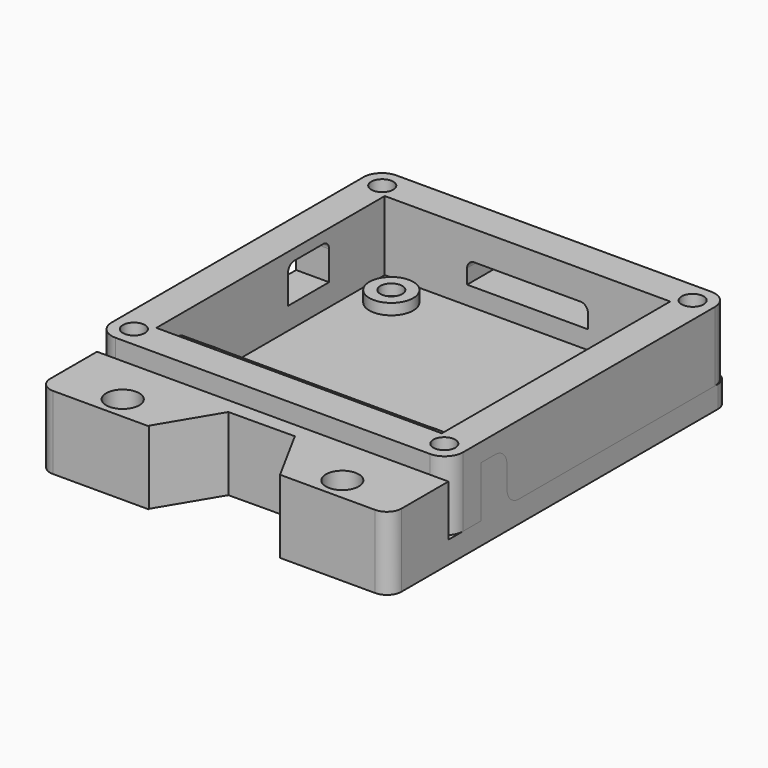
from build123d import *

# Parameters (mm, degrees)
SKETCH_W        = 48
SKETCH_H        = 48
SKETCH_R        = 1.5
PAD_DEPTH       = 2.5
SKETCH001_W     = 48
SKETCH001_H     = 48
SKETCH001_W_2   = 39
SKETCH001_H_2   = 39
PAD001_DEPTH    = 10
FILLET_R        = 2.5
SKETCH002_R     = 3
SKETCH002_R_2   = 1.5
PAD002_DEPTH    = 2
SKETCH003_W     = 16.5
SKETCH003_H     = 3
POCKET_DEPTH    = 5
SKETCH004_W     = 7
SKETCH004_H     = 5
POCKET001_DEPTH = 5
FILLET001_R     = 1
SKETCH005_R     = 1.5
POCKET002_DEPTH = 150.548094
SKETCH006_W     = 48
SKETCH006_H     = 58
SKETCH006_R     = 1.15
SKETCH006_R_2   = 2.25
PAD003_DEPTH    = 3
SKETCH007_R     = 2.25
PAD004_DEPTH    = 7
FILLET002_R     = 2
POCKET003_DEPTH = 10.001


with BuildPart() as box:
    # Sketch → Pad (new body)
    with BuildSketch(Plane.XY):
        Rectangle(SKETCH_W, SKETCH_H)
        with Locations((-15, 15)):
            Circle(SKETCH_R, mode=Mode.SUBTRACT)
        with Locations((15, 15)):
            Circle(SKETCH_R, mode=Mode.SUBTRACT)
        with Locations((15, -15)):
            Circle(SKETCH_R, mode=Mode.SUBTRACT)
        with Locations((-15, -15)):
            Circle(SKETCH_R, mode=Mode.SUBTRACT)
        with BuildLine():
            ThreePointArc((-10.15, 3.5), (-13.65, 0), (-10.15, -3.5))
            Line((-10.15, -3.5), (-10.15, -7.3))
            Line((-10.15, -7.3), (10.15, -7.3))
            Line((10.15, -7.3), (10.15, -3.5))
            ThreePointArc((10.15, -3.5), (13.65, 0), (10.15, 3.5))
            Line((10.15, 7.3), (10.15, 3.5))
            Line((-10.15, 7.3), (10.15, 7.3))
            Line((-10.15, 3.5), (-10.15, 7.3))
        make_face(mode=Mode.SUBTRACT)
    extrude(amount=PAD_DEPTH)

    # Sketch001 (on Face18 of Pad) → Pad001 (join)
    with BuildSketch(Plane.XY.offset(2.5)):
        Rectangle(SKETCH001_W, SKETCH001_H)
        Rectangle(SKETCH001_W_2, SKETCH001_H_2, mode=Mode.SUBTRACT)
    extrude(amount=PAD001_DEPTH)

    # Fillet
    fillet_edges = [box.edges().sort_by_distance(p)[0] for p in [
        (24, -24, 6.25),
        (-24, -24, 6.25),
        (24, 24, 6.25),
        (-24, 24, 6.25),
    ]]
    fillet(fillet_edges, radius=FILLET_R)

    # Sketch002 (on Face23 of Fillet) → Pad002 (join)
    with BuildSketch(Plane.XY.offset(2.5)):
        with Locations((15, 15)):
            Circle(SKETCH002_R)
        with Locations((15, 15)):
            Circle(SKETCH002_R_2, mode=Mode.SUBTRACT)
        with Locations((-15, 15)):
            Circle(SKETCH002_R)
        with Locations((-15, 15)):
            Circle(SKETCH002_R_2, mode=Mode.SUBTRACT)
        with Locations((15, -15)):
            Circle(SKETCH002_R)
        with Locations((15, -15)):
            Circle(SKETCH002_R_2, mode=Mode.SUBTRACT)
        with Locations((-15, -15)):
            Circle(SKETCH002_R)
        with Locations((-15, -15)):
            Circle(SKETCH002_R_2, mode=Mode.SUBTRACT)
    extrude(amount=PAD002_DEPTH)

    # Sketch003 (on Face22 of Pad002) → Pocket (cut)
    with BuildSketch(Plane.XZ.offset(-19.5)):
        with Locations((0, 7)):
            Rectangle(SKETCH003_W, SKETCH003_H)
    extrude(amount=-POCKET_DEPTH, mode=Mode.SUBTRACT)

    # Sketch004 (on Face35 of Pocket) → Pocket001 (cut)
    with BuildSketch(Plane.YZ.offset(-19.5)):
        with Locations((6.5, 8.5)):
            Rectangle(SKETCH004_W, SKETCH004_H)
    extrude(amount=-POCKET001_DEPTH, mode=Mode.SUBTRACT)

    # Fillet001
    fillet001_edges = [box.edges().sort_by_distance(p)[0] for p in [
        (-21.75, 3, 11),
        (-21.75, 10, 11),
        (-8.25, 21.75, 8.5),
        (8.25, 21.75, 8.5),
    ]]
    fillet(fillet001_edges, radius=FILLET001_R)

    # Sketch005 (on Face11 of Fillet001) → Pocket002 (cut, through all)
    with BuildSketch(Plane.XY.offset(12.5)):
        with Locations((-21.2, 21.2)):
            Circle(SKETCH005_R)
        with Locations((-21.2, -21.2)):
            Circle(SKETCH005_R)
    pocket002 = extrude(amount=-POCKET002_DEPTH, mode=Mode.SUBTRACT)

    # Mirrored: Pocket002 across Sketch005 V_Axis
    add(pocket002.mirror(Plane(origin=(0, 0, 12.5), x_dir=(0, 0, 1), z_dir=(1, 0, 0))), mode=Mode.SUBTRACT)


with BuildPart() as lid:
    # Sketch006 → Pad003 (new body)
    with BuildSketch(Plane.XY):
        with Locations((0, -5)):
            Rectangle(SKETCH006_W, SKETCH006_H)
        with Locations((-21.2, 21.2)):
            Circle(SKETCH006_R, mode=Mode.SUBTRACT)
        with Locations((21.2, 21.2)):
            Circle(SKETCH006_R, mode=Mode.SUBTRACT)
        with Locations((-21.2, -21.2)):
            Circle(SKETCH006_R, mode=Mode.SUBTRACT)
        with Locations((21.2, -21.2)):
            Circle(SKETCH006_R, mode=Mode.SUBTRACT)
        with Locations((-15, -17.864662)):
            Circle(SKETCH006_R_2, mode=Mode.SUBTRACT)
        with Locations((-15, -30.864662)):
            Circle(SKETCH006_R_2, mode=Mode.SUBTRACT)
        with Locations((15, -17.864662)):
            Circle(SKETCH006_R_2, mode=Mode.SUBTRACT)
        with Locations((15, -30.864662)):
            Circle(SKETCH006_R_2, mode=Mode.SUBTRACT)
    extrude(amount=PAD003_DEPTH)

    # Sketch007 (on Face14 of Pad003) → Pad004 (join)
    with BuildSketch(Plane.XY.offset(3)):
        with BuildLine():
            Line((24, -14), (-24, -14))
            Line((-24, -18.4), (-24, -14))
            Line((-21.200001, -18.399943), (-24, -18.4))
            ThreePointArc((-21.21792, -24), (-18.399957, -21.208959), (-21.200001, -18.399943))
            Line((-24, -24), (-21.21792, -24))
            Line((-24, -34), (-24, -24))
            Line((-24, -34), (24, -34))
            Line((24, -24), (24, -34))
            Line((21.2, -24), (24, -24))
            ThreePointArc((21.14123, -18.400617), (18.400154, -21.229386), (21.2, -24))
            Line((24, -18.400617), (21.14123, -18.400617))
            Line((24, -14), (24, -18.400617))
        make_face()
        with Locations((-15, -17.864662)):
            Circle(SKETCH007_R, mode=Mode.SUBTRACT)
        with Locations((-15, -30.864662)):
            Circle(SKETCH007_R, mode=Mode.SUBTRACT)
        with Locations((15, -30.864662)):
            Circle(SKETCH007_R, mode=Mode.SUBTRACT)
        with Locations((15, -17.864662)):
            Circle(SKETCH007_R, mode=Mode.SUBTRACT)
    extrude(amount=PAD004_DEPTH)

    # Fillet002
    fillet002_edges = [lid.edges().sort_by_distance(p)[0] for p in [
        (0, -14, 3),
        (0, -14, 10),
        (24, 24, 1.5),
        (-24, 24, 1.5),
        (-24, -34, 5),
        (24, -34, 5),
    ]]
    fillet(fillet002_edges, radius=FILLET002_R)

    # Sketch008 (on Face2 of Fillet002) → Pocket003 (cut, through all)
    with BuildSketch(Plane(origin=(0, 0, 0), x_dir=(1, 0, 0), z_dir=(0, 0, -1))):
        Polygon((4.464844, 41.81442), (-4.570037, 41.753371), (-8.999178, 33.878378), (-4.358836, 26.125957), (4.676058, 26.066758), (9, 34), align=None)
    extrude(amount=-POCKET003_DEPTH, mode=Mode.SUBTRACT)


solid = Compound([box.part, lid.part])
